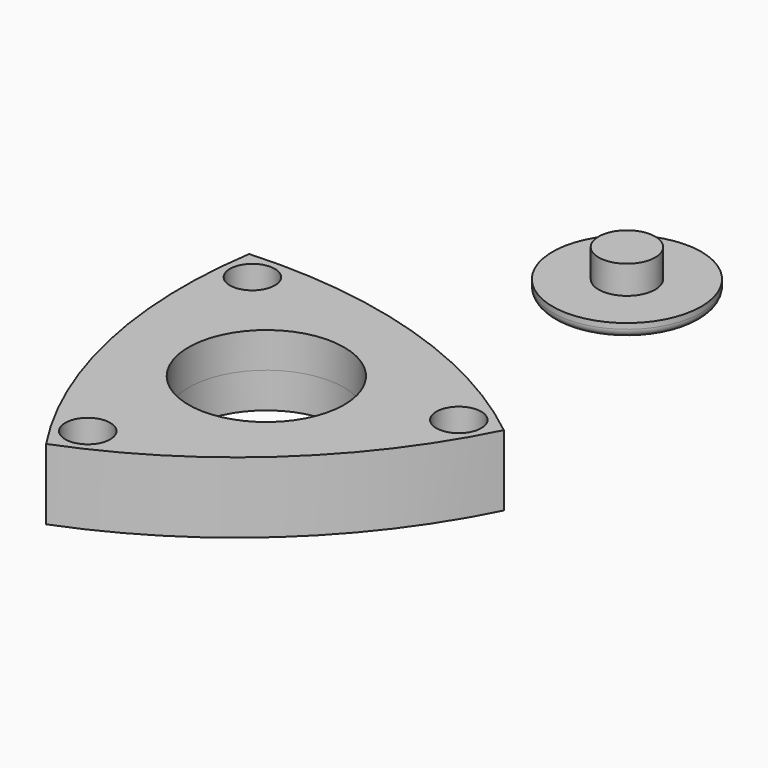
from build123d import *

# Parameters (mm, degrees)
F0_R          = 3.175
F0_R_2        = 11
F1_DEPTH      = 5
F1_DEPTH_BACK = 5
F2_R          = 10.5
F2_R_2        = 4
F3_DEPTH      = 2
F4_R          = 4
F5_DEPTH      = 4
F5_DEPTH_BACK = 2
F6_R          = 1.2264204897


with BuildPart() as f1:
    # F0 (on Top) → F1 (new body, two sides)
    with BuildSketch(Plane.XY) as f1_sk:
        with BuildLine():
            ThreePointArc((-8.842844516, -27.8561878949), (13.0304821044, -14.2761270764), (28.5455886276, 6.2699659549))
            ThreePointArc((28.5455886276, 6.2699659549), (5.8482900848, 18.4229256967), (-19.7027441116, 21.5862219401))
            ThreePointArc((-19.7027441116, 21.5862219401), (-18.878729768, -4.1466649877), (-8.842844516, -27.8561878949))
        make_face()
        with Locations((-7.1687334744, -22.5825056938)):
            Circle(F0_R, mode=Mode.SUBTRACT)
        Circle(F0_R_2, mode=Mode.SUBTRACT)
        with Locations((-15.9698426708, 17.4964749218)):
            Circle(F0_R, mode=Mode.SUBTRACT)
        with Locations((23.1373130944, 5.0820519864)):
            Circle(F0_R, mode=Mode.SUBTRACT)
    extrude(amount=F1_DEPTH)
    extrude(f1_sk.sketch, amount=-F1_DEPTH_BACK)


with BuildPart() as f3:
    # F2 (on Top) → F3 (new body)
    with BuildSketch(Plane.XY):
        with Locations((13.008961454, 47.4386923015)):
            Circle(F2_R)
        with Locations((13.008961454, 47.4386923015)):
            Circle(F2_R_2, mode=Mode.SUBTRACT)
    extrude(amount=F3_DEPTH)

    # F6
    f6_edges = [f3.edges().sort_by_distance(p)[0] for p in [
        (2.508961, 47.438692, 0),
    ]]
    fillet(f6_edges, radius=F6_R)


with BuildPart() as f5:
    # F4 (on face) → F5 (new body, two sides)
    with BuildSketch(Plane.XY.offset(2)) as f5_sk:
        with Locations((13.008961454, 47.4386923015)):
            Circle(F4_R)
    extrude(amount=F5_DEPTH)
    extrude(f5_sk.sketch, amount=-F5_DEPTH_BACK)


solid = Compound([f1.part, f3.part, f5.part])
